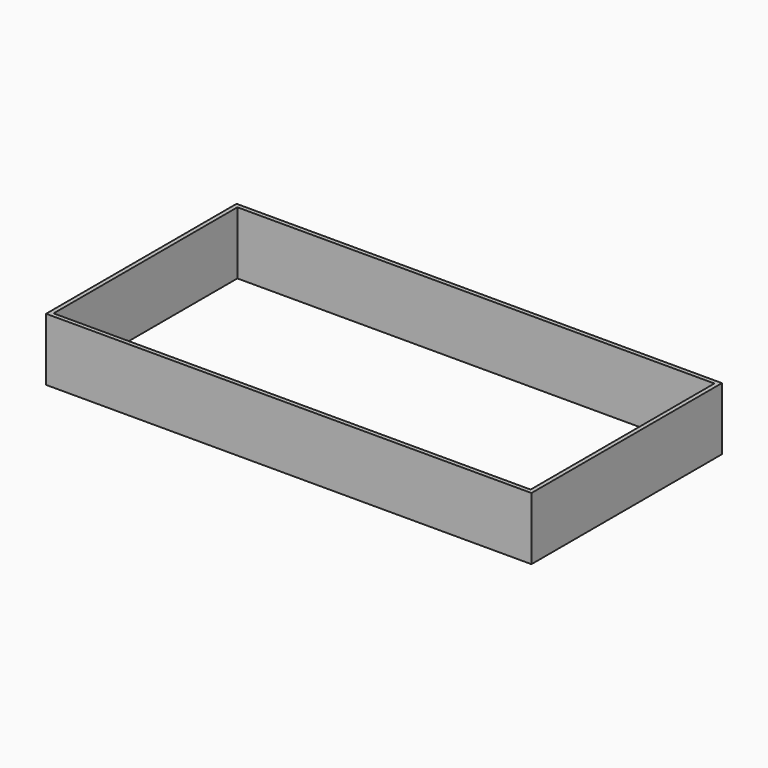
from build123d import *

# Parameters (mm, degrees)
F0_W     = 116.2
F0_H     = 57
F1_DEPTH = 15
F2_T     = -1
F3_DEPTH = 1.001


with BuildPart() as f1:
    # F0 (on Top) → F1 (new body)
    with BuildSketch(Plane.XY):
        with Locations((58.1, -28.5)):
            Rectangle(F0_W, F0_H)
    extrude(amount=F1_DEPTH)

    # F2
    f2_openings = [f1.faces().sort_by_distance(p)[0] for p in [
        (58.1, -28.5, 15),
    ]]
    offset(amount=F2_T, openings=f2_openings)

    # F3 (cut, through all): a face of the model
    f3_faces = [f1.faces().sort_by_distance(p)[0] for p in [
        (58.1, -28.5, 1),
    ]]
    extrude(f3_faces, amount=-F3_DEPTH, mode=Mode.SUBTRACT)


solid = f1.part
